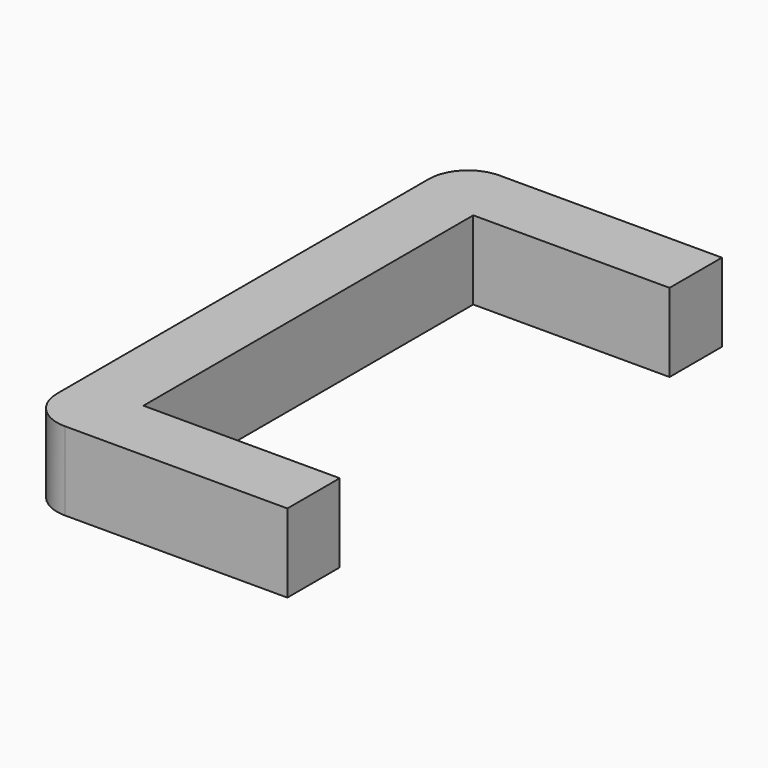
from build123d import *

# Parameters (mm, degrees)
F1_DEPTH = 6
F2_R     = 3


with BuildPart() as f1:
    # F0 (on Top) → F1 (new body)
    with BuildSketch(Plane.XY):
        Polygon((15, 0), (0, 0), (0, 31.5), (15, 31.5), (15, 36.5), (-5, 36.5), (-5, 0), (-5, -5), (15, -5), align=None)
    extrude(amount=F1_DEPTH)

    # F2
    f2_edges = [f1.edges().sort_by_distance(p)[0] for p in [
        (-5, 36.5, 3),
        (-5, -5, 3),
    ]]
    fillet(f2_edges, radius=F2_R)


solid = f1.part
